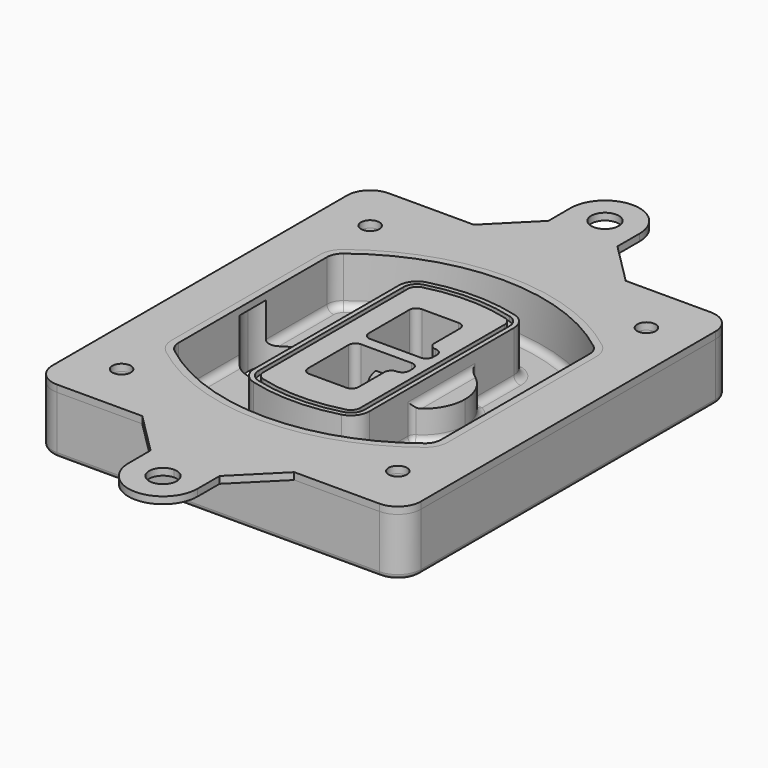
from build123d import *

# Parameters (mm, degrees)
F0_R      = 4
F1_DEPTH  = 25
F2_DEPTH  = 3
F3_DEPTH  = 18
F5_DEPTH  = 21
F6_DEPTH  = 2
F8_DEPTH  = 20
F9_DEPTH  = 16
F10_DEPTH = 25
F7_R      = 6
F7_R_2    = 4
F11_DEPTH = 6
F13_DEPTH = 9
F14_R     = 3
F15_R     = 2
F16_R     = 4
F16_R_2   = 6
F17_DEPTH = 3


with BuildPart() as f1:
    # F0 (on Top) → F1 (new body)
    with BuildSketch(Plane.XY):
        with BuildLine():
            ThreePointArc((14.05, 38.3825811321), (16.9789321881, 31.3115133202), (24.05, 28.3825811321))
            Line((24.05, 28.3825811321), (164.05, 28.3825811321))
            ThreePointArc((164.05, 28.3825811321), (171.1210678119, 31.3115133202), (174.05, 38.3825811321))
            Line((174.05, 38.3825811321), (174.05, 198.3825811321))
            ThreePointArc((174.05, 198.3825811321), (171.1210678119, 205.4536489439), (164.05, 208.3825811321))
            Line((164.05, 208.3825811321), (24.05, 208.3825811321))
            ThreePointArc((24.05, 208.3825811321), (16.9789321881, 205.4536489439), (14.05, 198.3825811321))
            Line((14.05, 198.3825811321), (14.05, 38.3825811321))
        make_face()
        with Locations((34.05, 50.8825811321)):
            Circle(F0_R, mode=Mode.SUBTRACT)
        with Locations((154.05, 50.8825811321)):
            Circle(F0_R, mode=Mode.SUBTRACT)
        with BuildLine():
            ThreePointArc((30.05, 158.6760234193), (31.4679615202, 164.8154295545), (35.4346153846, 169.7112011673))
            ThreePointArc((35.4346153846, 169.7112011673), (94.05, 189.8825811321), (152.6653846154, 169.7112011673))
            ThreePointArc((152.6653846154, 169.7112011673), (156.6320384798, 164.8154295545), (158.05, 158.6760234193))
            Line((158.05, 158.6760234193), (158.05, 78.0891388448))
            ThreePointArc((158.05, 78.0891388448), (156.6320384798, 71.9497327097), (152.6653846154, 67.0539610969))
            ThreePointArc((152.6653846154, 67.0539610969), (94.05, 46.8825811321), (35.4346153846, 67.0539610969))
            ThreePointArc((35.4346153846, 67.0539610969), (31.4679615202, 71.9497327097), (30.05, 78.0891388448))
            Line((30.05, 78.0891388448), (30.05, 158.6760234193))
        make_face(mode=Mode.SUBTRACT)
        with Locations((34.05, 185.8825811321)):
            Circle(F0_R, mode=Mode.SUBTRACT)
        with Locations((154.05, 185.8825811321)):
            Circle(F0_R, mode=Mode.SUBTRACT)
        with BuildLine():
            ThreePointArc((152.6653846154, 169.7112011673), (94.05, 189.8825811321), (35.4346153846, 169.7112011673))
            ThreePointArc((35.4346153846, 169.7112011673), (31.4679615202, 164.8154295545), (30.05, 158.6760234193))
            Line((30.05, 158.6760234193), (30.05, 78.0891388448))
            ThreePointArc((30.05, 78.0891388448), (31.4679615202, 71.9497327097), (35.4346153846, 67.0539610969))
            ThreePointArc((35.4346153846, 67.0539610969), (94.05, 46.8825811321), (152.6653846154, 67.0539610969))
            ThreePointArc((152.6653846154, 67.0539610969), (156.6320384798, 71.9497327097), (158.05, 78.0891388448))
            Line((158.05, 78.0891388448), (158.05, 158.6760234193))
            ThreePointArc((158.05, 158.6760234193), (156.6320384798, 164.8154295545), (152.6653846154, 169.7112011673))
        make_face()
        with BuildLine():
            Line((34.05, 78.0891388448), (34.05, 158.6760234193))
            ThreePointArc((34.05, 158.6760234193), (35.0628296573, 163.0613135158), (37.8961538462, 166.5582932393))
            ThreePointArc((37.8961538462, 166.5582932393), (94.05, 185.8825811321), (150.2038461538, 166.5582932393))
            ThreePointArc((150.2038461538, 166.5582932393), (153.0371703427, 163.0613135158), (154.05, 158.6760234193))
            Line((154.05, 158.6760234193), (154.05, 78.0891388448))
            ThreePointArc((154.05, 78.0891388448), (153.0371703427, 73.7038487483), (150.2038461538, 70.2068690248))
            ThreePointArc((150.2038461538, 70.2068690248), (94.05, 50.8825811321), (37.8961538462, 70.2068690248))
            ThreePointArc((37.8961538462, 70.2068690248), (35.0628296573, 73.7038487483), (34.05, 78.0891388448))
        make_face(mode=Mode.SUBTRACT)
        with BuildLine():
            ThreePointArc((37.8961538462, 166.5582932393), (35.0628296573, 163.0613135158), (34.05, 158.6760234193))
            Line((34.05, 158.6760234193), (34.05, 78.0891388448))
            ThreePointArc((34.05, 78.0891388448), (35.0628296573, 73.7038487483), (37.8961538462, 70.2068690248))
            ThreePointArc((37.8961538462, 70.2068690248), (94.05, 50.8825811321), (150.2038461538, 70.2068690248))
            ThreePointArc((150.2038461538, 70.2068690248), (153.0371703427, 73.7038487483), (154.05, 78.0891388448))
            Line((154.05, 78.0891388448), (154.05, 158.6760234193))
            ThreePointArc((154.05, 158.6760234193), (153.0371703427, 163.0613135158), (150.2038461538, 166.5582932393))
            ThreePointArc((150.2038461538, 166.5582932393), (94.05, 185.8825811321), (37.8961538462, 166.5582932393))
        make_face()
        with BuildLine():
            ThreePointArc((148.3576923077, 164.1936122933), (150.3410192399, 161.7457264869), (151.05, 158.6760234193))
            Line((151.05, 158.6760234193), (151.05, 78.0891388448))
            ThreePointArc((151.05, 78.0891388448), (150.3410192399, 75.0194357772), (148.3576923077, 72.5715499708))
            ThreePointArc((148.3576923077, 72.5715499708), (94.05, 53.8825811321), (39.7423076923, 72.5715499708))
            ThreePointArc((39.7423076923, 72.5715499708), (37.7589807601, 75.0194357772), (37.05, 78.0891388448))
            Line((37.05, 78.0891388448), (37.05, 158.6760234193))
            ThreePointArc((37.05, 158.6760234193), (37.7589807601, 161.7457264869), (39.7423076923, 164.1936122933))
            ThreePointArc((39.7423076923, 164.1936122933), (94.05, 182.8825811321), (148.3576923077, 164.1936122933))
        make_face(mode=Mode.SUBTRACT)
        with BuildLine():
            Line((151.05, 78.0891388448), (151.05, 158.6760234193))
            ThreePointArc((151.05, 158.6760234193), (150.3410192399, 161.7457264869), (148.3576923077, 164.1936122933))
            ThreePointArc((148.3576923077, 164.1936122933), (94.05, 182.8825811321), (39.7423076923, 164.1936122933))
            ThreePointArc((39.7423076923, 164.1936122933), (37.7589807601, 161.7457264869), (37.05, 158.6760234193))
            Line((37.05, 158.6760234193), (37.05, 78.0891388448))
            ThreePointArc((37.05, 78.0891388448), (37.7589807601, 75.0194357772), (39.7423076923, 72.5715499708))
            ThreePointArc((39.7423076923, 72.5715499708), (94.05, 53.8825811321), (148.3576923077, 72.5715499708))
            ThreePointArc((148.3576923077, 72.5715499708), (150.3410192399, 75.0194357772), (151.05, 78.0891388448))
        make_face()
    extrude(amount=-F1_DEPTH)

    # F0 (on Top) → F2 (join)
    with BuildSketch(Plane.XY):
        with BuildLine():
            ThreePointArc((37.8961538462, 166.5582932393), (35.0628296573, 163.0613135158), (34.05, 158.6760234193))
            Line((34.05, 158.6760234193), (34.05, 78.0891388448))
            ThreePointArc((34.05, 78.0891388448), (35.0628296573, 73.7038487483), (37.8961538462, 70.2068690248))
            ThreePointArc((37.8961538462, 70.2068690248), (94.05, 50.8825811321), (150.2038461538, 70.2068690248))
            ThreePointArc((150.2038461538, 70.2068690248), (153.0371703427, 73.7038487483), (154.05, 78.0891388448))
            Line((154.05, 78.0891388448), (154.05, 158.6760234193))
            ThreePointArc((154.05, 158.6760234193), (153.0371703427, 163.0613135158), (150.2038461538, 166.5582932393))
            ThreePointArc((150.2038461538, 166.5582932393), (94.05, 185.8825811321), (37.8961538462, 166.5582932393))
        make_face()
        with BuildLine():
            ThreePointArc((148.3576923077, 164.1936122933), (150.3410192399, 161.7457264869), (151.05, 158.6760234193))
            Line((151.05, 158.6760234193), (151.05, 78.0891388448))
            ThreePointArc((151.05, 78.0891388448), (150.3410192399, 75.0194357772), (148.3576923077, 72.5715499708))
            ThreePointArc((148.3576923077, 72.5715499708), (94.05, 53.8825811321), (39.7423076923, 72.5715499708))
            ThreePointArc((39.7423076923, 72.5715499708), (37.7589807601, 75.0194357772), (37.05, 78.0891388448))
            Line((37.05, 78.0891388448), (37.05, 158.6760234193))
            ThreePointArc((37.05, 158.6760234193), (37.7589807601, 161.7457264869), (39.7423076923, 164.1936122933))
            ThreePointArc((39.7423076923, 164.1936122933), (94.05, 182.8825811321), (148.3576923077, 164.1936122933))
        make_face(mode=Mode.SUBTRACT)
    extrude(amount=F2_DEPTH)

    # F0 (on Top) → F3 (cut)
    with BuildSketch(Plane.XY):
        with BuildLine():
            Line((151.05, 78.0891388448), (151.05, 158.6760234193))
            ThreePointArc((151.05, 158.6760234193), (150.3410192399, 161.7457264869), (148.3576923077, 164.1936122933))
            ThreePointArc((148.3576923077, 164.1936122933), (94.05, 182.8825811321), (39.7423076923, 164.1936122933))
            ThreePointArc((39.7423076923, 164.1936122933), (37.7589807601, 161.7457264869), (37.05, 158.6760234193))
            Line((37.05, 158.6760234193), (37.05, 78.0891388448))
            ThreePointArc((37.05, 78.0891388448), (37.7589807601, 75.0194357772), (39.7423076923, 72.5715499708))
            ThreePointArc((39.7423076923, 72.5715499708), (94.05, 53.8825811321), (148.3576923077, 72.5715499708))
            ThreePointArc((148.3576923077, 72.5715499708), (150.3410192399, 75.0194357772), (151.05, 78.0891388448))
        make_face()
    extrude(amount=-F3_DEPTH, mode=Mode.SUBTRACT)

    # F4 (on face) → F5 (join, through all)
    with BuildSketch(Plane.XY.offset(3)):
        with BuildLine():
            ThreePointArc((69.05, 79.13605345), (70.6988454002, 74.2716074128), (74.9657088123, 71.4123412437))
            ThreePointArc((74.9657088123, 71.4123412437), (94.05, 68.8825811321), (113.1342911877, 71.4123412437))
            ThreePointArc((113.1342911877, 71.4123412437), (117.4011545998, 74.2716074128), (119.05, 79.13605345))
            Line((119.05, 79.13605345), (119.05, 157.6291088141))
            ThreePointArc((119.05, 157.6291088141), (117.4011545998, 162.4935548514), (113.1342911877, 165.3528210204))
            ThreePointArc((113.1342911877, 165.3528210204), (94.05, 167.8825811321), (74.9657088123, 165.3528210204))
            ThreePointArc((74.9657088123, 165.3528210204), (70.6988454002, 162.4935548514), (69.05, 157.6291088141))
            Line((69.05, 157.6291088141), (69.05, 79.13605345))
        make_face()
        with BuildLine():
            ThreePointArc((112.6132183908, 163.4218929688), (115.8133659499, 161.2774433421), (117.05, 157.6291088141))
            Line((117.05, 157.6291088141), (117.05, 79.13605345))
            ThreePointArc((117.05, 79.13605345), (115.8133659499, 75.4877189221), (112.6132183908, 73.3432692953))
            ThreePointArc((112.6132183908, 73.3432692953), (94.05, 70.8825811321), (75.4867816092, 73.3432692953))
            ThreePointArc((75.4867816092, 73.3432692953), (72.2866340501, 75.4877189221), (71.05, 79.13605345))
            Line((71.05, 79.13605345), (71.05, 157.6291088141))
            ThreePointArc((71.05, 157.6291088141), (72.2866340501, 161.2774433421), (75.4867816092, 163.4218929688))
            ThreePointArc((75.4867816092, 163.4218929688), (94.05, 165.8825811321), (112.6132183908, 163.4218929688))
        make_face(mode=Mode.SUBTRACT)
        with BuildLine():
            Line((117.05, 79.13605345), (117.05, 157.6291088141))
            ThreePointArc((117.05, 157.6291088141), (115.8133659499, 161.2774433421), (112.6132183908, 163.4218929688))
            ThreePointArc((112.6132183908, 163.4218929688), (94.05, 165.8825811321), (75.4867816092, 163.4218929688))
            ThreePointArc((75.4867816092, 163.4218929688), (72.2866340501, 161.2774433421), (71.05, 157.6291088141))
            Line((71.05, 157.6291088141), (71.05, 79.13605345))
            ThreePointArc((71.05, 79.13605345), (72.2866340501, 75.4877189221), (75.4867816092, 73.3432692953))
            ThreePointArc((75.4867816092, 73.3432692953), (94.05, 70.8825811321), (112.6132183908, 73.3432692953))
            ThreePointArc((112.6132183908, 73.3432692953), (115.8133659499, 75.4877189221), (117.05, 79.13605345))
        make_face()
        with BuildLine():
            ThreePointArc((112.0921455939, 161.4909649173), (114.2255772999, 160.0613318328), (115.05, 157.6291088141))
            Line((115.05, 157.6291088141), (115.05, 79.13605345))
            ThreePointArc((115.05, 79.13605345), (114.2255772999, 76.7038304314), (112.0921455939, 75.2741973469))
            ThreePointArc((112.0921455939, 75.2741973469), (94.05, 72.8825811321), (76.0078544061, 75.2741973469))
            ThreePointArc((76.0078544061, 75.2741973469), (73.8744227001, 76.7038304314), (73.05, 79.13605345))
            Line((73.05, 79.13605345), (73.05, 157.6291088141))
            ThreePointArc((73.05, 157.6291088141), (73.8744227001, 160.0613318328), (76.0078544061, 161.4909649173))
            ThreePointArc((76.0078544061, 161.4909649173), (94.05, 163.8825811321), (112.0921455939, 161.4909649173))
        make_face(mode=Mode.SUBTRACT)
        with BuildLine():
            Line((115.05, 79.13605345), (115.05, 157.6291088141))
            ThreePointArc((115.05, 157.6291088141), (114.2255772999, 160.0613318328), (112.0921455939, 161.4909649173))
            ThreePointArc((112.0921455939, 161.4909649173), (94.05, 163.8825811321), (76.0078544061, 161.4909649173))
            ThreePointArc((76.0078544061, 161.4909649173), (73.8744227001, 160.0613318328), (73.05, 157.6291088141))
            Line((73.05, 157.6291088141), (73.05, 79.13605345))
            ThreePointArc((73.05, 79.13605345), (73.8744227001, 76.7038304314), (76.0078544061, 75.2741973469))
            ThreePointArc((76.0078544061, 75.2741973469), (94.05, 72.8825811321), (112.0921455939, 75.2741973469))
            ThreePointArc((112.0921455939, 75.2741973469), (114.2255772999, 76.7038304314), (115.05, 79.13605345))
        make_face()
        with BuildLine():
            Line((86.05, 115.8825811321), (108.05, 115.8825811321))
            ThreePointArc((108.05, 115.8825811321), (110.1713203436, 115.0039014756), (111.05, 112.8825811321))
            Line((111.05, 112.8825811321), (111.05, 110.8825811321))
            ThreePointArc((111.05, 110.8825811321), (110.1713203436, 108.7612607885), (108.05, 107.8825811321))
            ThreePointArc((108.05, 107.8825811321), (105.9286796564, 107.0039014756), (105.05, 104.8825811321))
            Line((105.05, 104.8825811321), (105.05, 90.8825811321))
            ThreePointArc((105.05, 90.8825811321), (104.1713203436, 88.7612607885), (102.05, 87.8825811321))
            Line((102.05, 87.8825811321), (86.05, 87.8825811321))
            ThreePointArc((86.05, 87.8825811321), (83.9286796564, 88.7612607885), (83.05, 90.8825811321))
            Line((83.05, 90.8825811321), (83.05, 112.8825811321))
            ThreePointArc((83.05, 112.8825811321), (83.9286796564, 115.0039014756), (86.05, 115.8825811321))
        make_face(mode=Mode.SUBTRACT)
        with BuildLine():
            ThreePointArc((86.05, 120.8825811321), (83.9286796564, 121.7612607885), (83.05, 123.8825811321))
            Line((83.05, 123.8825811321), (83.05, 145.8825811321))
            ThreePointArc((83.05, 145.8825811321), (83.9286796564, 148.0039014756), (86.05, 148.8825811321))
            Line((86.05, 148.8825811321), (102.05, 148.8825811321))
            ThreePointArc((102.05, 148.8825811321), (104.1713203436, 148.0039014756), (105.05, 145.8825811321))
            Line((105.05, 145.8825811321), (105.05, 131.8825811321))
            ThreePointArc((105.05, 131.8825811321), (105.9286796564, 129.7612607885), (108.05, 128.8825811321))
            ThreePointArc((108.05, 128.8825811321), (110.1713203436, 128.0039014756), (111.05, 125.8825811321))
            Line((111.05, 125.8825811321), (111.05, 123.8825811321))
            ThreePointArc((111.05, 123.8825811321), (110.1713203436, 121.7612607885), (108.05, 120.8825811321))
            Line((108.05, 120.8825811321), (86.05, 120.8825811321))
        make_face(mode=Mode.SUBTRACT)
    extrude(amount=-F5_DEPTH)

    # F4 (on face) → F6 (cut)
    with BuildSketch(Plane.XY.offset(3)):
        with BuildLine():
            Line((117.05, 79.13605345), (117.05, 157.6291088141))
            ThreePointArc((117.05, 157.6291088141), (115.8133659499, 161.2774433421), (112.6132183908, 163.4218929688))
            ThreePointArc((112.6132183908, 163.4218929688), (94.05, 165.8825811321), (75.4867816092, 163.4218929688))
            ThreePointArc((75.4867816092, 163.4218929688), (72.2866340501, 161.2774433421), (71.05, 157.6291088141))
            Line((71.05, 157.6291088141), (71.05, 79.13605345))
            ThreePointArc((71.05, 79.13605345), (72.2866340501, 75.4877189221), (75.4867816092, 73.3432692953))
            ThreePointArc((75.4867816092, 73.3432692953), (94.05, 70.8825811321), (112.6132183908, 73.3432692953))
            ThreePointArc((112.6132183908, 73.3432692953), (115.8133659499, 75.4877189221), (117.05, 79.13605345))
        make_face()
        with BuildLine():
            ThreePointArc((112.0921455939, 161.4909649173), (114.2255772999, 160.0613318328), (115.05, 157.6291088141))
            Line((115.05, 157.6291088141), (115.05, 79.13605345))
            ThreePointArc((115.05, 79.13605345), (114.2255772999, 76.7038304314), (112.0921455939, 75.2741973469))
            ThreePointArc((112.0921455939, 75.2741973469), (94.05, 72.8825811321), (76.0078544061, 75.2741973469))
            ThreePointArc((76.0078544061, 75.2741973469), (73.8744227001, 76.7038304314), (73.05, 79.13605345))
            Line((73.05, 79.13605345), (73.05, 157.6291088141))
            ThreePointArc((73.05, 157.6291088141), (73.8744227001, 160.0613318328), (76.0078544061, 161.4909649173))
            ThreePointArc((76.0078544061, 161.4909649173), (94.05, 163.8825811321), (112.0921455939, 161.4909649173))
        make_face(mode=Mode.SUBTRACT)
    extrude(amount=-F6_DEPTH, mode=Mode.SUBTRACT)

    # F7 (on face) → F8 (join)
    with BuildSketch(Plane(origin=(0, 0, -25), x_dir=(1, 0, 0), z_dir=(0, 0, -1))):
        with BuildLine():
            ThreePointArc((97.33842436, -118.3825811321), (110.8067035675, -104.9143019245), (124.274982775, -118.3825811321))
            Line((124.274982775, -118.3825811321), (129.274982775, -118.3825811321))
            ThreePointArc((129.274982775, -118.3825811321), (110.8067035675, -99.9143019245), (92.33842436, -118.3825811321))
            Line((92.33842436, -118.3825811321), (97.33842436, -118.3825811321))
        make_face()
        with BuildLine():
            Line((97.33842436, -118.3825811321), (124.274982775, -118.3825811321))
            ThreePointArc((124.274982775, -118.3825811321), (110.8067035675, -104.9143019245), (97.33842436, -118.3825811321))
        make_face()
        with BuildLine():
            ThreePointArc((97.33842436, -118.3825811321), (110.8067035675, -131.8508603396), (124.274982775, -118.3825811321))
            Line((124.274982775, -118.3825811321), (97.33842436, -118.3825811321))
        make_face()
        with BuildLine():
            Line((129.274982775, -118.3825811321), (124.274982775, -118.3825811321))
            ThreePointArc((124.274982775, -118.3825811321), (110.8067035675, -131.8508603396), (97.33842436, -118.3825811321))
            Line((97.33842436, -118.3825811321), (92.33842436, -118.3825811321))
            ThreePointArc((92.33842436, -118.3825811321), (110.8067035675, -136.8508603396), (129.274982775, -118.3825811321))
        make_face()
    extrude(amount=-F8_DEPTH)

    # F7 (on face) → F9 (cut)
    with BuildSketch(Plane(origin=(0, 0, -25), x_dir=(1, 0, 0), z_dir=(0, 0, -1))):
        with BuildLine():
            Line((97.33842436, -118.3825811321), (124.274982775, -118.3825811321))
            ThreePointArc((124.274982775, -118.3825811321), (110.8067035675, -104.9143019245), (97.33842436, -118.3825811321))
        make_face()
        with BuildLine():
            ThreePointArc((97.33842436, -118.3825811321), (110.8067035675, -131.8508603396), (124.274982775, -118.3825811321))
            Line((124.274982775, -118.3825811321), (97.33842436, -118.3825811321))
        make_face()
    extrude(amount=-F9_DEPTH, mode=Mode.SUBTRACT)

    # F7 (on face) → F10 (cut)
    with BuildSketch(Plane(origin=(0, 0, -25), x_dir=(1, 0, 0), z_dir=(0, 0, -1))):
        with BuildLine():
            Line((35.0181770675, -118.3825811321), (61.9547354825, -118.3825811321))
            ThreePointArc((61.9547354825, -118.3825811321), (48.486456275, -104.9143019245), (35.0181770675, -118.3825811321))
        make_face()
        with BuildLine():
            ThreePointArc((35.0181770675, -118.3825811321), (48.486456275, -131.8508603396), (61.9547354825, -118.3825811321))
            Line((61.9547354825, -118.3825811321), (35.0181770675, -118.3825811321))
        make_face()
    extrude(amount=-F10_DEPTH, mode=Mode.SUBTRACT)

    # F7 (on face) → F11 (cut)
    with BuildSketch(Plane(origin=(0, 0, -25), x_dir=(1, 0, 0), z_dir=(0, 0, -1))):
        with Locations((154.05, -185.8825811321)):
            Circle(F7_R)
        with Locations((154.05, -185.8825811321)):
            Circle(F7_R_2, mode=Mode.SUBTRACT)
        with Locations((154.05, -185.8825811321)):
            Circle(F7_R)
        with Locations((154.05, -185.8825811321)):
            Circle(F7_R_2, mode=Mode.SUBTRACT)
        with Locations((34.05, -185.8825811321)):
            Circle(F7_R)
        with Locations((34.05, -185.8825811321)):
            Circle(F7_R_2, mode=Mode.SUBTRACT)
        with Locations((34.05, -185.8825811321)):
            Circle(F7_R)
        with Locations((34.05, -185.8825811321)):
            Circle(F7_R_2, mode=Mode.SUBTRACT)
        with Locations((34.05, -50.8825811321)):
            Circle(F7_R)
        with Locations((34.05, -50.8825811321)):
            Circle(F7_R_2, mode=Mode.SUBTRACT)
        with Locations((34.05, -50.8825811321)):
            Circle(F7_R)
        with Locations((34.05, -50.8825811321)):
            Circle(F7_R_2, mode=Mode.SUBTRACT)
        with Locations((154.05, -50.8825811321)):
            Circle(F7_R)
        with Locations((154.05, -50.8825811321)):
            Circle(F7_R_2, mode=Mode.SUBTRACT)
        with Locations((154.05, -50.8825811321)):
            Circle(F7_R)
        with Locations((154.05, -50.8825811321)):
            Circle(F7_R_2, mode=Mode.SUBTRACT)
    extrude(amount=-F11_DEPTH, mode=Mode.SUBTRACT)

    # F12 (on face) → F13 (cut, through all)
    with BuildSketch(Plane(origin=(0, 0, -9), x_dir=(1, 0, 0), z_dir=(0, 0, -1))):
        with BuildLine():
            Line((105.05, -104.8825811321), (105.05, -100.8344273567))
            ThreePointArc((105.05, -100.8344273567), (96.6196536419, -106.5586667507), (92.5084157545, -115.8825811321))
            Line((92.5084157545, -115.8825811321), (97.5724848595, -115.8825811321))
            ThreePointArc((97.5724848595, -115.8825811321), (100.2357188154, -110.0369939039), (105.3036447004, -106.0898642673))
            ThreePointArc((105.3036447004, -106.0898642673), (105.1140958889, -105.4994012441), (105.05, -104.8825811321))
        make_face()
        with BuildLine():
            ThreePointArc((105.3036447004, -130.6752979968), (100.2357188154, -126.7281683602), (97.5724848595, -120.8825811321))
            Line((97.5724848595, -120.8825811321), (92.5084157545, -120.8825811321))
            ThreePointArc((92.5084157545, -120.8825811321), (96.6196536419, -130.2064955134), (105.05, -135.9307349074))
            Line((105.05, -135.9307349074), (105.05, -131.8825811321))
            ThreePointArc((105.05, -131.8825811321), (105.1140958889, -131.26576102), (105.3036447004, -130.6752979968))
        make_face()
        with BuildLine():
            ThreePointArc((105.3036447004, -106.0898642673), (100.2357188154, -110.0369939039), (97.5724848595, -115.8825811321))
            Line((97.5724848595, -115.8825811321), (108.05, -115.8825811321))
            ThreePointArc((108.05, -115.8825811321), (110.1713203436, -115.0039014756), (111.05, -112.8825811321))
            Line((111.05, -112.8825811321), (111.05, -110.8825811321))
            ThreePointArc((111.05, -110.8825811321), (110.1713203436, -108.7612607885), (108.05, -107.8825811321))
            ThreePointArc((108.05, -107.8825811321), (106.4101599782, -107.3947365219), (105.3036447004, -106.0898642673))
        make_face()
        with BuildLine():
            Line((108.05, -120.8825811321), (97.5724848595, -120.8825811321))
            ThreePointArc((97.5724848595, -120.8825811321), (100.2357188154, -126.7281683602), (105.3036447004, -130.6752979968))
            ThreePointArc((105.3036447004, -130.6752979968), (106.4101599782, -129.3704257422), (108.05, -128.8825811321))
            ThreePointArc((108.05, -128.8825811321), (110.1713203436, -128.0039014756), (111.05, -125.8825811321))
            Line((111.05, -125.8825811321), (111.05, -123.8825811321))
            ThreePointArc((111.05, -123.8825811321), (110.1713203436, -121.7612607885), (108.05, -120.8825811321))
        make_face()
    extrude(amount=F13_DEPTH, mode=Mode.SUBTRACT)

    # F14
    f14_edges = [f1.edges().sort_by_distance(p)[0] for p in [
        (37.05, 94.679105, -18),
        (37.05, 142.086057, -18),
        (119.05, 118.382581, -5),
        (119.05, 134.909087, -11.5),
        (119.05, 101.856075, -11.5),
        (119.05, 90.496064, -18),
        (129.274983, 118.382581, -18),
    ]]
    fillet(f14_edges, radius=F14_R)

    # F15
    f15_edges = [f1.edges().sort_by_distance(p)[0] for p in [
        (94.05, 28.382581, -25),
    ]]
    fillet(f15_edges, radius=F15_R)


with BuildPart() as f17:
    # F16 (on face) → F17 (new body, through all)
    with BuildSketch(Plane.XY):
        with BuildLine():
            Line((61.05, 208.3825811321), (24.05, 208.3825811321))
            ThreePointArc((24.05, 208.3825811321), (16.9789321881, 205.4536489439), (14.05, 198.3825811321))
            Line((14.05, 198.3825811321), (14.05, 38.3825811321))
            ThreePointArc((14.05, 38.3825811321), (16.9789321881, 31.3115133202), (24.05, 28.3825811321))
            Line((24.05, 28.3825811321), (61.05, 28.3825811321))
            Line((61.05, 28.3825811321), (94.05, 28.3825811321))
            Line((94.05, 28.3825811321), (127.05, 28.3825811321))
            Line((127.05, 28.3825811321), (164.05, 28.3825811321))
            ThreePointArc((164.05, 28.3825811321), (171.1210678119, 31.3115133202), (174.05, 38.3825811321))
            Line((174.05, 38.3825811321), (174.05, 198.3825811321))
            ThreePointArc((174.05, 198.3825811321), (171.1210678119, 205.4536489439), (164.05, 208.3825811321))
            Line((164.05, 208.3825811321), (127.05, 208.3825811321))
            Line((127.05, 208.3825811321), (61.05, 208.3825811321))
        make_face()
        with Locations((34.05, 50.8825811321)):
            Circle(F16_R, mode=Mode.SUBTRACT)
        with BuildLine():
            ThreePointArc((150.2038461538, 166.5582932393), (153.0371703427, 163.0613135158), (154.05, 158.6760234193))
            Line((154.05, 158.6760234193), (154.05, 78.0891388448))
            ThreePointArc((154.05, 78.0891388448), (153.0371703427, 73.7038487483), (150.2038461538, 70.2068690248))
            ThreePointArc((150.2038461538, 70.2068690248), (94.05, 50.8825811321), (37.8961538462, 70.2068690248))
            ThreePointArc((37.8961538462, 70.2068690248), (35.0628296573, 73.7038487483), (34.05, 78.0891388448))
            Line((34.05, 78.0891388448), (34.05, 158.6760234193))
            ThreePointArc((34.05, 158.6760234193), (35.0628296573, 163.0613135158), (37.8961538462, 166.5582932393))
            ThreePointArc((37.8961538462, 166.5582932393), (94.05, 185.8825811321), (150.2038461538, 166.5582932393))
        make_face(mode=Mode.SUBTRACT)
        with Locations((154.05, 50.8825811321)):
            Circle(F16_R, mode=Mode.SUBTRACT)
        with Locations((34.05, 185.8825811321)):
            Circle(F16_R, mode=Mode.SUBTRACT)
        with Locations((154.05, 185.8825811321)):
            Circle(F16_R, mode=Mode.SUBTRACT)
        with BuildLine():
            Line((79.05, 226.3825811321), (61.05, 208.3825811321))
            Line((61.05, 208.3825811321), (127.05, 208.3825811321))
            Line((127.05, 208.3825811321), (109.05, 226.3825811321))
            Line((109.05, 226.3825811321), (109.05, 238.3825811321))
            ThreePointArc((109.05, 238.3825811321), (94.05, 253.3825811321), (79.05, 238.3825811321))
            Line((79.05, 238.3825811321), (79.05, 226.3825811321))
        make_face()
        with Locations((94.05, 238.3825811321)):
            Circle(F16_R_2, mode=Mode.SUBTRACT)
        with BuildLine():
            Line((94.05, 28.3825811321), (61.05, 28.3825811321))
            Line((61.05, 28.3825811321), (79.05, 10.3825811321))
            Line((79.05, 10.3825811321), (79.05, -1.6174188679))
            ThreePointArc((79.05, -1.6174188679), (94.05, -16.6174188679), (109.05, -1.6174188679))
            Line((109.05, -1.6174188679), (109.05, 10.3825811321))
            Line((109.05, 10.3825811321), (127.05, 28.3825811321))
            Line((127.05, 28.3825811321), (94.05, 28.3825811321))
        make_face()
        with BuildLine():
            ThreePointArc((100.05, -1.6174188679), (89.8073593129, -5.8600595551), (94.05, 4.3825811321))
            ThreePointArc((94.05, 4.3825811321), (98.2926406871, 2.6252218192), (100.05, -1.6174188679))
        make_face(mode=Mode.SUBTRACT)
    extrude(amount=F17_DEPTH)


solid = Compound([f1.part, f17.part])
